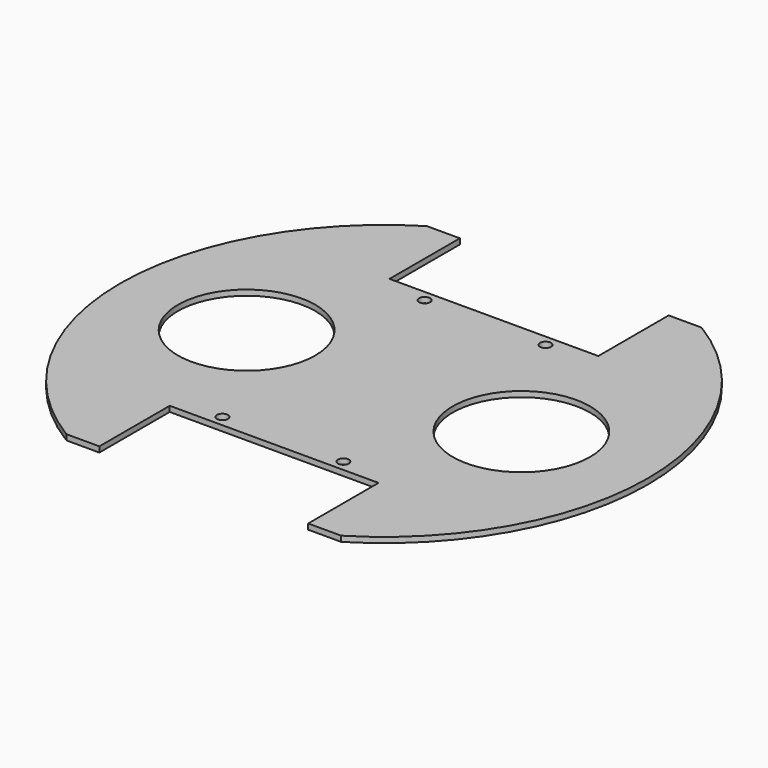
from build123d import *

# Parameters (mm, degrees)
F0_R     = 1
F0_R_2   = 12.5
F1_DEPTH = 1


with BuildPart() as f1:
    # F0 (on Top) → F1 (new body)
    with BuildSketch(Plane.XY):
        with BuildLine():
            Line((19, 25), (0, 25))
            Line((0, 25), (-19, 25))
            Line((-19, 25), (-19, 41))
            Line((-19, 41), (-25, 41))
            ThreePointArc((-25, 41), (-48.020829, 0), (-25, -41))
            Line((-25, -41), (-19, -41))
            Line((-19, -41), (-19, -25))
            Line((-19, -25), (0, -25))
            Line((0, -25), (19, -25))
            Line((19, -25), (19, -41))
            Line((19, -41), (25, -41))
            ThreePointArc((25, -41), (48.020829, 0), (25, 41))
            Line((25, 41), (19, 41))
            Line((19, 41), (19, 25))
        make_face()
        with Locations((-11, -23)):
            Circle(F0_R, mode=Mode.SUBTRACT)
        with Locations((11, -23)):
            Circle(F0_R, mode=Mode.SUBTRACT)
        with Locations((-25, 0)):
            Circle(F0_R_2, mode=Mode.SUBTRACT)
        with Locations((-11, 23)):
            Circle(F0_R, mode=Mode.SUBTRACT)
        with Locations((25, 0)):
            Circle(F0_R_2, mode=Mode.SUBTRACT)
        with Locations((11, 23)):
            Circle(F0_R, mode=Mode.SUBTRACT)
    extrude(amount=F1_DEPTH)


solid = f1.part
